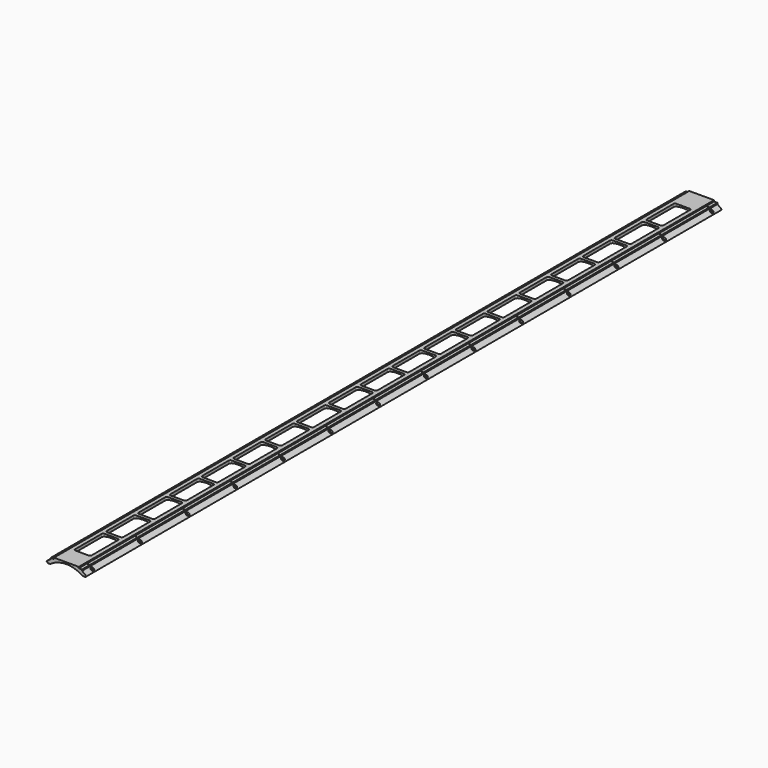
from build123d import *

# Parameters (mm, degrees)
F1_DEPTH             = 1524
F2_W                 = 63.5
F2_H                 = 139.7
F3_DEPTH             = 25.4
F4_R                 = 6.35
F6_D                 = 3.7973
F9_D                 = 6.7564
F9_CSINK_D           = 13.4874
F9_CSINK_ANGLE       = 82
F9_ON_F8_D           = 6.7564
F9_ON_F8_CSINK_D     = 13.4874
F9_ON_F8_CSINK_ANGLE = 82


with BuildPart() as f1:
    # F0 (on Front) → F1 (new body, symmetric)
    with BuildSketch(Plane.XZ):
        with BuildLine():
            Line((47.625, 0), (0, 0))
            Line((0, 0), (-47.625, 0))
            Line((-47.625, 0), (-47.625, -4.7625))
            Line((-47.625, -4.7625), (-60.325, -4.7625))
            Line((-60.325, -4.7625), (-60.325, -9.525))
            Line((-60.325, -9.525), (-77.7615755796, -22.3647337407))
            Line((-77.7615755796, -22.3647337407), (-73.1677040458, -22.3647337407))
            Line((-73.1677040458, -22.3647337407), (-73.1677040458, -26.1929631233))
            Line((-73.1677040458, -26.1929631233), (-62.3726907614, -26.1929631233))
            ThreePointArc((-62.3726907614, -26.1929631233), (0, -6.35), (62.3726907614, -26.1929631233))
            Line((62.3726907614, -26.1929631233), (73.1677040458, -26.1929631233))
            Line((73.1677040458, -26.1929631233), (73.1677040458, -22.3647337407))
            Line((73.1677040458, -22.3647337407), (77.7615755796, -22.3647337407))
            Line((77.7615755796, -22.3647337407), (60.325, -9.525))
            Line((60.325, -9.525), (60.325, -4.7625))
            Line((60.325, -4.7625), (47.625, -4.7625))
            Line((47.625, -4.7625), (47.625, 0))
        make_face()
    extrude(amount=F1_DEPTH, both=True)

    # F2 (on face) → F3 (cut)
    with BuildSketch(Plane.XY):
        with Locations((-0.524379313, -1377.95)):
            Rectangle(F2_W, F2_H)
        with Locations((-0.524379313, -1225.55)):
            Rectangle(F2_W, F2_H)
        with Locations((-0.524379313, -1073.15)):
            Rectangle(F2_W, F2_H)
        with Locations((-0.524379313, -920.75)):
            Rectangle(F2_W, F2_H)
        with Locations((-0.524379313, -768.35)):
            Rectangle(F2_W, F2_H)
        with Locations((-0.524379313, -615.95)):
            Rectangle(F2_W, F2_H)
        with Locations((-0.524379313, -463.55)):
            Rectangle(F2_W, F2_H)
        with Locations((-0.524379313, -311.15)):
            Rectangle(F2_W, F2_H)
        with Locations((-0.524379313, -158.75)):
            Rectangle(F2_W, F2_H)
        with Locations((-0.524379313, -6.35)):
            Rectangle(F2_W, F2_H)
        with Locations((-0.524379313, 146.05)):
            Rectangle(F2_W, F2_H)
        with Locations((-0.524379313, 298.45)):
            Rectangle(F2_W, F2_H)
        with Locations((-0.524379313, 450.85)):
            Rectangle(F2_W, F2_H)
        with Locations((-0.524379313, 603.25)):
            Rectangle(F2_W, F2_H)
        with Locations((-0.524379313, 755.65)):
            Rectangle(F2_W, F2_H)
        with Locations((-0.524379313, 908.05)):
            Rectangle(F2_W, F2_H)
        with Locations((-0.524379313, 1060.45)):
            Rectangle(F2_W, F2_H)
        with Locations((-0.524379313, 1212.85)):
            Rectangle(F2_W, F2_H)
        with Locations((-0.524379313, 1365.25)):
            Rectangle(F2_W, F2_H)
    extrude(amount=-F3_DEPTH, mode=Mode.SUBTRACT)

    # F4
    f4_edges = [f1.edges().sort_by_distance(p)[0] for p in [
        (31.225621, -1308.1, -5.482401),
        (-32.274379, -1308.1, -5.64377),
        (-32.274379, -1447.8, -5.64377),
        (31.225621, -1447.8, -5.482401),
        (31.225621, -1295.4, -5.482401),
        (31.225621, -1143, -5.482401),
        (31.225621, -990.6, -5.482401),
        (31.225621, -838.2, -5.482401),
        (31.225621, -685.8, -5.482401),
        (31.225621, -533.4, -5.482401),
        (31.225621, -381, -5.482401),
        (31.225621, -228.6, -5.482401),
        (31.225621, -76.2, -5.482401),
        (31.225621, 76.2, -5.482401),
        (31.225621, 228.6, -5.482401),
        (31.225621, 381, -5.482401),
        (31.225621, 533.4, -5.482401),
        (31.225621, 685.8, -5.482401),
        (31.225621, 838.2, -5.482401),
        (31.225621, 990.6, -5.482401),
        (31.225621, 1143, -5.482401),
        (31.225621, 1295.4, -5.482401),
        (31.225621, 1435.1, -5.482401),
        (31.225621, 1282.7, -5.482401),
        (31.225621, 1130.3, -5.482401),
        (31.225621, 977.9, -5.482401),
        (31.225621, 825.5, -5.482401),
        (31.225621, 673.1, -5.482401),
        (31.225621, 520.7, -5.482401),
        (31.225621, 368.3, -5.482401),
        (31.225621, 215.9, -5.482401),
        (31.225621, 63.5, -5.482401),
        (31.225621, -88.9, -5.482401),
        (31.225621, -241.3, -5.482401),
        (31.225621, -393.7, -5.482401),
        (31.225621, -546.1, -5.482401),
        (31.225621, -698.5, -5.482401),
        (31.225621, -850.9, -5.482401),
        (31.225621, -1003.3, -5.482401),
        (31.225621, -1155.7, -5.482401),
        (-32.274379, -1155.7, -5.64377),
        (-32.274379, -1003.3, -5.64377),
        (-32.274379, -850.9, -5.64377),
        (-32.274379, -698.5, -5.64377),
        (-32.274379, -546.1, -5.64377),
        (-32.274379, -393.7, -5.64377),
        (-32.274379, -241.3, -5.64377),
        (-32.274379, -88.9, -5.64377),
        (-32.274379, 63.5, -5.64377),
        (-32.274379, 215.9, -5.64377),
        (-32.274379, 368.3, -5.64377),
        (-32.274379, 520.7, -5.64377),
        (-32.274379, 673.1, -5.64377),
        (-32.274379, 825.5, -5.64377),
        (-32.274379, 977.9, -5.64377),
        (-32.274379, 1435.1, -5.64377),
        (-32.274379, 1282.7, -5.64377),
        (-32.274379, 1130.3, -5.64377),
        (-32.274379, 1295.4, -5.64377),
        (-32.274379, 1143, -5.64377),
        (-32.274379, 990.6, -5.64377),
        (-32.274379, 838.2, -5.64377),
        (-32.274379, 685.8, -5.64377),
        (-32.274379, 533.4, -5.64377),
        (-32.274379, 381, -5.64377),
        (-32.274379, 228.6, -5.64377),
        (-32.274379, 76.2, -5.64377),
        (-32.274379, -76.2, -5.64377),
        (-32.274379, -228.6, -5.64377),
        (-32.274379, -381, -5.64377),
        (-32.274379, -533.4, -5.64377),
        (-32.274379, -685.8, -5.64377),
        (-32.274379, -838.2, -5.64377),
        (-32.274379, -990.6, -5.64377),
        (-32.274379, -1143, -5.64377),
        (-32.274379, -1295.4, -5.64377),
    ]]
    fillet(f4_edges, radius=F4_R)

    # F6 (through all)
    with Locations(Plane.XY.offset(-4.7625)):
        with Locations((-53.975, 1257.3), (-53.975, 1485.9), (53.975, 800.1), (-53.975, 800.1), (-53.975, 1028.7), (53.975, 571.5), (-53.975, 571.5), (53.975, 342.9), (53.975, 114.3), (-53.975, 342.9), (-53.975, 114.3), (53.975, 1028.7), (53.975, 1485.9), (53.975, 1257.3), (-53.975, -342.9), (53.975, -1028.7), (-53.975, -571.5), (53.975, -1485.9), (53.975, -800.1), (-53.975, -800.1), (53.975, -571.5), (-53.975, -1257.3), (-53.975, -1028.7), (53.975, -114.3), (53.975, -1257.3), (-53.975, -114.3), (-53.975, -1485.9), (53.975, -342.9)):
            Hole(F6_D / 2)

    # F9 (through all)
    with Locations(Plane(origin=(16.6618814941, 0, 22.6271168731), x_dir=(0.8052381718, 0, -0.5929515045), z_dir=(0.5929515045, 0, 0.8052381718))):
        with Locations((65.0508236337, 1028.7), (65.0508236337, 1257.3), (65.0508236337, 1485.9), (65.0508236337, 800.1), (65.0508236337, -114.3), (65.0508236337, 114.3), (65.0508236337, 571.5), (65.0508236337, 342.9), (90.4508236337, -1485.9), (65.0508236337, -1257.3), (65.0508236337, -800.1), (65.0508236337, -1485.9), (65.0508236337, -1028.7), (65.0508236337, -342.9), (65.0508236337, -571.5)):
            CounterSinkHole(F9_D / 2, F9_CSINK_D / 2, counter_sink_angle=F9_CSINK_ANGLE)

    # F9 on F8 (through all)
    with Locations(Plane(origin=(-16.6618814941, 0, 22.6271168731), x_dir=(0.8052381718, 0, 0.5929515045), z_dir=(-0.5929515045, 0, 0.8052381718))):
        with Locations((-65.0508236337, -1485.9), (-65.0508236337, -1257.3), (-65.0508236337, 1257.3), (-65.0508236337, 1485.9), (-65.0508236337, 342.9), (-65.0508236337, 571.5), (-65.0508236337, 800.1), (-65.0508236337, 114.3), (-65.0508236337, 1028.7), (-65.0508236337, -571.5), (-65.0508236337, -342.9), (-65.0508236337, -1028.7), (-65.0508236337, -800.1), (-65.0508236337, -114.3)):
            CounterSinkHole(F9_ON_F8_D / 2, F9_ON_F8_CSINK_D / 2, counter_sink_angle=F9_ON_F8_CSINK_ANGLE)


solid = f1.part
